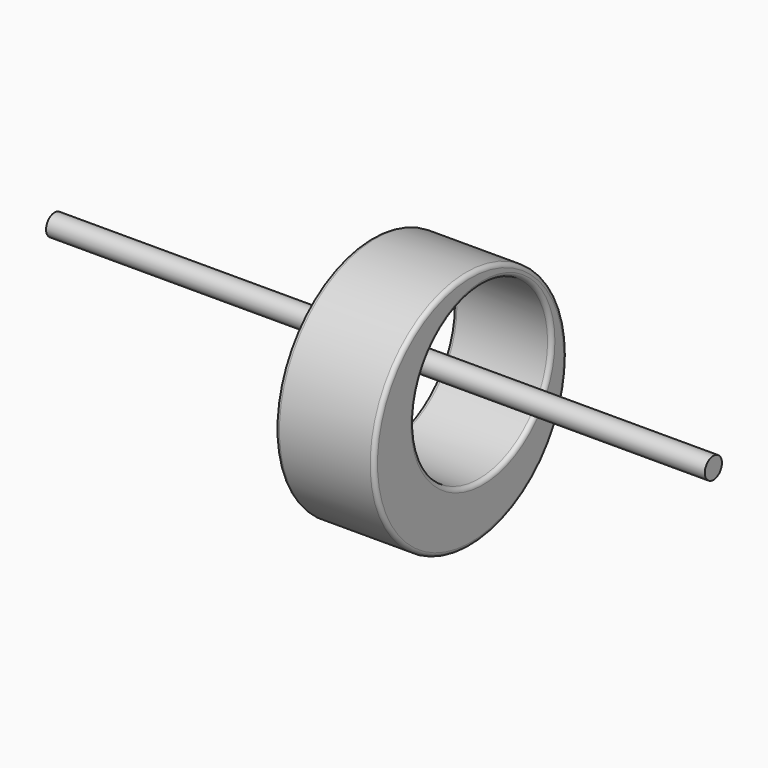
from build123d import *

# Parameters (mm, degrees)
F0_R     = 464.377934
F0_R_2   = 331.307916
F1_DEPTH = 381.381
F2_R     = 15.748
F3_R     = 15.875
F4_R     = 41.235015
F5_DEPTH = 1270


with BuildPart() as f1:
    # F0 (on Right) → F1 (new body)
    with BuildSketch(Plane.YZ):
        with Locations((-59.252143, -69.192201)):
            Circle(F0_R)
        Circle(F0_R_2, mode=Mode.SUBTRACT)
    extrude(amount=F1_DEPTH)

    # F2
    f2_edges = [f1.edges().sort_by_distance(p)[0] for p in [
        (381.381, -523.630077, -69.192201),
        (381.381, -331.307916, 0),
    ]]
    fillet(f2_edges, radius=F2_R)

    # F3
    f3_edges = [f1.edges().sort_by_distance(p)[0] for p in [
        (0, -523.630077, -69.192201),
        (0, -331.307916, 0),
    ]]
    fillet(f3_edges, radius=F3_R)


with BuildPart() as f5:
    # F4 (on face) → F5 (new body, symmetric)
    with BuildSketch(Plane.YZ):
        Circle(F4_R)
    extrude(amount=F5_DEPTH, both=True)


solid = Compound([f1.part, f5.part])
